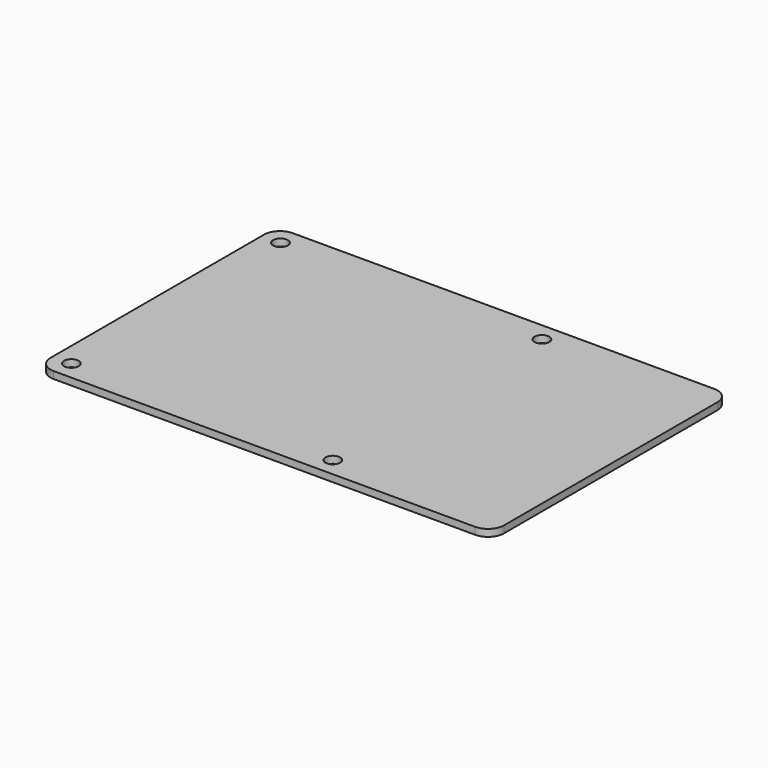
from build123d import *

# Parameters (mm, degrees)
F1_DEPTH = 1.32
F2_D     = 2.75


with BuildPart() as f1:
    # F0 (on Top) → F1 (new body)
    with BuildSketch(Plane.XY):
        with BuildLine():
            ThreePointArc((42.5, 25), (41.62132, 27.12132), (39.5, 28))
            Line((39.5, 28), (-39.5, 28))
            ThreePointArc((-39.5, 28), (-41.62132, 27.12132), (-42.5, 25))
            Line((-42.5, 25), (-42.5, -25))
            ThreePointArc((-42.5, -25), (-41.62132, -27.12132), (-39.5, -28))
            Line((-39.5, -28), (39.5, -28))
            ThreePointArc((39.5, -28), (41.62132, -27.12132), (42.5, -25))
            Line((42.5, -25), (42.5, 25))
        make_face()
    extrude(amount=F1_DEPTH)

    # F2 (through all)
    with Locations(Plane(origin=(0, 0, 0), x_dir=(1, 0, 0), z_dir=(0, 0, -1))):
        with Locations((-39, 24.5), (10, 24.5), (10, -24.5), (-39, -24.5)):
            Hole(F2_D / 2)


solid = f1.part
